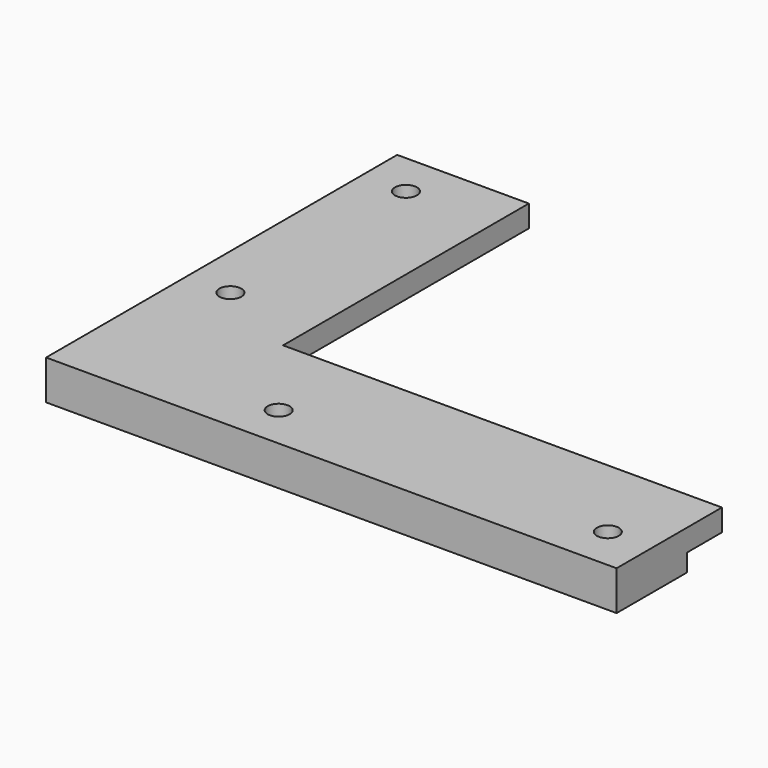
from build123d import *

# Parameters (mm, degrees)
F1_DEPTH  = 12
F2_W      = 130
F2_H      = 20
F3_DEPTH  = 5
F4_W      = 105
F4_H      = 20
F5_DEPTH  = 5
F7_W      = 20
F7_H      = 100
F7_R      = 2.5
F7_H_2    = 20
F7_W_2    = 130
F8_DEPTH  = 25
F9_DEPTH  = 5
F10_W     = 130
F10_H     = 20
F10_W_2   = 20
F10_H_2   = 100
F11_DEPTH = 25
F12_W     = 100
F12_H     = 16
F13_DEPTH = 150


with BuildPart() as f1:
    # F0 (on Top) → F1 (new body)
    with BuildSketch(Plane.XY):
        with BuildLine():
            add(Edge.make_bspline(
                [(-116.5, 0), (-116.5, -86.5), (0, -86.5)],
                knots=[3.1415926536, 3.1415926536, 3.1415926536, 4.7123889804, 4.7123889804, 4.7123889804], degree=2, weights=[1, 0.7071067812, 1]))
            Line((-116.5, 0), (-116.5, -86.5))
            Line((-116.5, -86.5), (0, -86.5))
        make_face()
        Polygon((-116.5, -86.5), (-116.5, 0), (-130, 0), (-130, -100), (0, -100), (0, -86.5), align=None)
    extrude(amount=F1_DEPTH)

    # F2 (on face) → F3 (join)
    with BuildSketch(Plane.XZ.offset(100)):
        with Locations((-65, 6)):
            Rectangle(F2_W, F2_H)
    extrude(amount=F3_DEPTH)

    # F4 (on face) → F5 (join)
    with BuildSketch(Plane(origin=(-130, 0, 0), x_dir=(0, -1, 0), z_dir=(-1, 0, 0))):
        with Locations((52.5, 6)):
            Rectangle(F4_W, F4_H)
    extrude(amount=F5_DEPTH)

    # F7 (on face) → F8 (join)
    with BuildSketch(Plane(origin=(0, 0, -4), x_dir=(1, 0, 0), z_dir=(0, 0, -1))):
        with Locations((-140, 50)):
            Rectangle(F7_W, F7_H)
        with Locations((-140, 30)):
            Circle(F7_R, mode=Mode.SUBTRACT)
        with Locations((-140, 80)):
            Circle(F7_R, mode=Mode.SUBTRACT)
        with Locations((-140, 110)):
            Rectangle(F7_W, F7_H_2)
        with Locations((-65, 110)):
            Rectangle(F7_W_2, F7_H_2)
        with Locations((-105, 110)):
            Circle(F7_R, mode=Mode.SUBTRACT)
        with Locations((-30, 110)):
            Circle(F7_R, mode=Mode.SUBTRACT)
    extrude(amount=-F8_DEPTH)

    # F6 (on face) → F9 (join)
    with BuildSketch(Plane.XY.offset(16)):
        Polygon((-120, 0), (-135, 0), (-135, -105), (0, -105), (0, -90), (-120, -90), align=None)
    extrude(amount=F9_DEPTH)

    # F10 (on Top) → F11 (cut, symmetric)
    with BuildSketch(Plane.XY):
        with Locations((-85, -10)):
            Rectangle(F10_W, F10_H)
        with Locations((-10, -10)):
            Rectangle(F10_W_2, F10_H)
        with Locations((-10, -70)):
            Rectangle(F10_W_2, F10_H_2)
    extrude(amount=F11_DEPTH, both=True, mode=Mode.SUBTRACT)

    # F12 (on face) → F13 (cut)
    with BuildSketch(Plane.YZ.offset(-20)):
        with Locations((-70, 4)):
            Rectangle(F12_W, F12_H)
    extrude(amount=-F13_DEPTH, mode=Mode.SUBTRACT)


solid = f1.part
